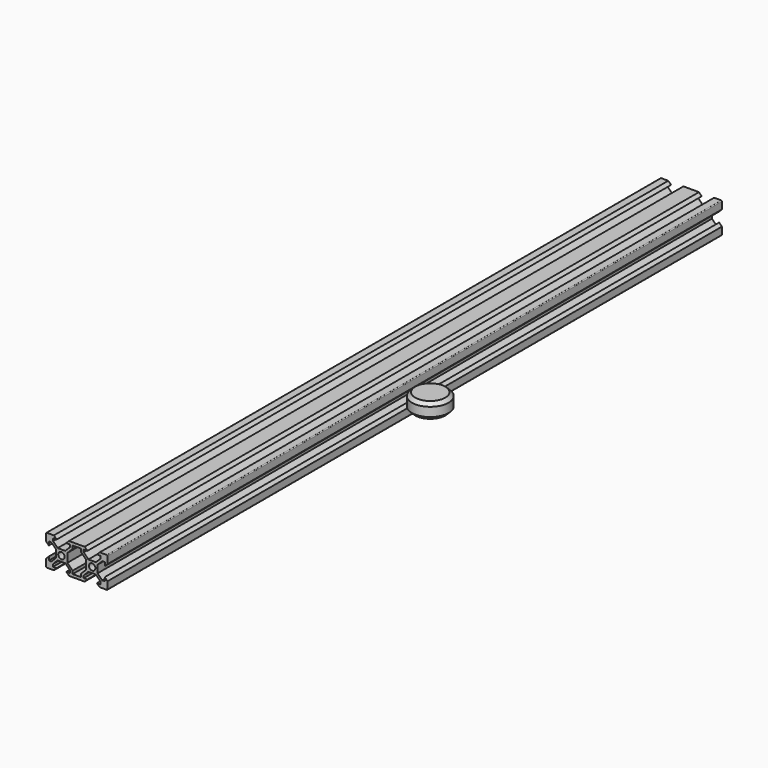
from build123d import *

# Parameters (mm, degrees)
F0_R     = 2.1
F1_DEPTH = 250


with BuildPart() as f1:
    # F0 (on Front) → F1 (new body, symmetric)
    with BuildSketch(Plane.XZ):
        with BuildLine():
            Line((2.7, -6.24), (2.7, -8.2))
            Line((2.7, -8.2), (0, -8.2))
            Line((0, -8.2), (0, -10))
            Line((0, -10), (5.075, -10))
            Line((5.075, -10), (6.875, -8.2))
            Line((6.875, -8.2), (4.50132, -8.2))
            Line((4.50132, -8.2), (4.50132, -6.56))
            Line((4.50132, -6.56), (7.530778, -3.530543))
            Line((7.530778, -3.530543), (10, -3.530543))
            Line((10, -3.530543), (12.469222, -3.530543))
            Line((12.469222, -3.530543), (15.5, -6.56132))
            Line((15.5, -6.56132), (15.5, -8.2))
            Line((15.5, -8.2), (13.125, -8.2))
            Line((13.125, -8.2), (14.925, -10))
            Line((14.925, -10), (19.5, -10))
            ThreePointArc((19.5, -10), (19.853553, -9.853553), (20, -9.5))
            Line((20, -9.5), (20, -4.925))
            Line((20, -4.925), (18.2, -3.125))
            Line((18.2, -3.125), (18.2, -5.5))
            Line((18.2, -5.5), (16.56132, -5.5))
            Line((16.56132, -5.5), (13.530543, -2.469222))
            Line((13.530543, -2.469222), (13.530543, 0))
            Line((13.530543, 0), (13.530543, 2.469222))
            Line((13.530543, 2.469222), (16.56132, 5.5))
            Line((16.56132, 5.5), (18.2, 5.5))
            Line((18.2, 5.5), (18.2, 3.125))
            Line((18.2, 3.125), (20, 4.925))
            Line((20, 4.925), (20, 9.5))
            ThreePointArc((20, 9.5), (19.853553, 9.853553), (19.5, 10))
            Line((19.5, 10), (14.925, 10))
            Line((14.925, 10), (13.125, 8.2))
            Line((13.125, 8.2), (15.5, 8.2))
            Line((15.5, 8.2), (15.5, 6.56132))
            Line((15.5, 6.56132), (12.469222, 3.530543))
            Line((12.469222, 3.530543), (10, 3.530543))
            Line((10, 3.530543), (7.530778, 3.530543))
            Line((7.530778, 3.530543), (4.50132, 6.56))
            Line((4.50132, 6.56), (4.50132, 8.2))
            Line((4.50132, 8.2), (6.875, 8.2))
            Line((6.875, 8.2), (5.075, 10))
            Line((5.075, 10), (0, 10))
            Line((0, 10), (0, 8.2))
            Line((0, 8.2), (2.7, 8.2))
            Line((2.7, 8.2), (2.7, 6.24))
            Line((2.7, 6.24), (6.1, 2.84))
            Line((6.1, 2.84), (6.1, -2.84))
            Line((6.1, -2.84), (2.7, -6.24))
        make_face()
        with Locations((10, 0)):
            Circle(F0_R, mode=Mode.SUBTRACT)
        with BuildLine():
            Line((0, -10), (0, -8.2))
            Line((0, -8.2), (-2.7, -8.2))
            Line((-2.7, -8.2), (-2.7, -6.24))
            Line((-2.7, -6.24), (-6.1, -2.84))
            Line((-6.1, -2.84), (-6.1, 2.84))
            Line((-6.1, 2.84), (-2.7, 6.24))
            Line((-2.7, 6.24), (-2.7, 8.2))
            Line((-2.7, 8.2), (0, 8.2))
            Line((0, 8.2), (0, 10))
            Line((0, 10), (-5.075, 10))
            Line((-5.075, 10), (-6.875, 8.2))
            Line((-6.875, 8.2), (-4.50132, 8.2))
            Line((-4.50132, 8.2), (-4.50132, 6.56))
            Line((-4.50132, 6.56), (-7.530778, 3.530543))
            Line((-7.530778, 3.530543), (-10, 3.530543))
            Line((-10, 3.530543), (-12.469222, 3.530543))
            Line((-12.469222, 3.530543), (-15.5, 6.56132))
            Line((-15.5, 6.56132), (-15.5, 8.2))
            Line((-15.5, 8.2), (-13.125, 8.2))
            Line((-13.125, 8.2), (-14.925, 10))
            Line((-14.925, 10), (-19.5, 10))
            ThreePointArc((-19.5, 10), (-19.853553, 9.853553), (-20, 9.5))
            Line((-20, 9.5), (-20, 4.925))
            Line((-20, 4.925), (-18.2, 3.125))
            Line((-18.2, 3.125), (-18.2, 5.5))
            Line((-18.2, 5.5), (-16.56132, 5.5))
            Line((-16.56132, 5.5), (-13.530543, 2.469222))
            Line((-13.530543, 2.469222), (-13.530543, 0))
            Line((-13.530543, 0), (-13.530543, -2.469222))
            Line((-13.530543, -2.469222), (-16.56132, -5.5))
            Line((-16.56132, -5.5), (-18.2, -5.5))
            Line((-18.2, -5.5), (-18.2, -3.125))
            Line((-18.2, -3.125), (-20, -4.925))
            Line((-20, -4.925), (-20, -9.5))
            ThreePointArc((-20, -9.5), (-19.853553, -9.853553), (-19.5, -10))
            Line((-19.5, -10), (-14.925, -10))
            Line((-14.925, -10), (-13.125, -8.2))
            Line((-13.125, -8.2), (-15.5, -8.2))
            Line((-15.5, -8.2), (-15.5, -6.56132))
            Line((-15.5, -6.56132), (-12.469222, -3.530543))
            Line((-12.469222, -3.530543), (-10, -3.530543))
            Line((-10, -3.530543), (-7.530778, -3.530543))
            Line((-7.530778, -3.530543), (-4.50132, -6.56))
            Line((-4.50132, -6.56), (-4.50132, -8.2))
            Line((-4.50132, -8.2), (-6.875, -8.2))
            Line((-6.875, -8.2), (-5.075, -10))
            Line((-5.075, -10), (0, -10))
        make_face()
        with Locations((-10, 0)):
            Circle(F0_R, mode=Mode.SUBTRACT)
    extrude(amount=F1_DEPTH, both=True)


with BuildPart() as f3:
    # F2 (on Front) → F3 (revolve)
    with BuildSketch(Plane.XZ):
        Polygon((42.069407, 2.94), (39.894407, 5.115), (30.124407, 5.115), (30.124407, -5.115), (39.894407, -5.115), (42.069407, -2.94), align=None)
    revolve(axis=Axis((30.124407, 0, 0), (0, 0, -1)))


solid = Compound([f1.part, f3.part])
